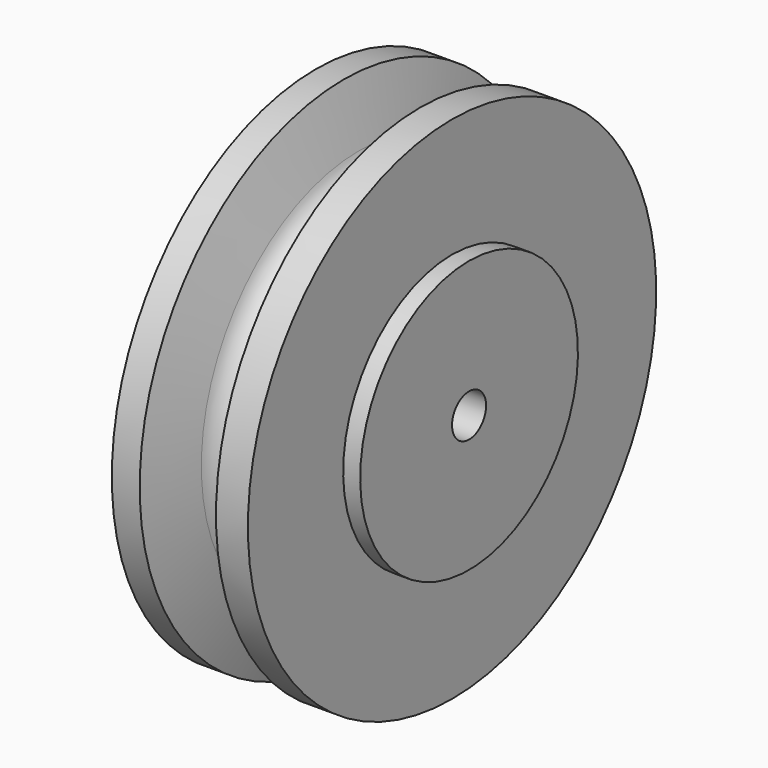
from build123d import *

# Parameters (mm, degrees)
F2_R     = 3.96875
F3_DEPTH = 31.751


with BuildPart() as f1:
    # F0 (on Front) → F1 (revolve)
    with BuildSketch(Plane.XZ):
        with BuildLine():
            Line((-59.353075, 25.4), (-59.353075, 0))
            Line((-59.353075, 0), (-27.603075, 0))
            Line((-27.603075, 0), (-27.603075, 25.4))
            Line((-27.603075, 25.4), (-30.778075, 25.4))
            Line((-30.778075, 25.4), (-30.778075, 47.625))
            Line((-30.778075, 47.625), (-36.734467, 47.625))
            Line((-36.734467, 47.625), (-38.806502, 37.173821))
            ThreePointArc((-38.806502, 37.173821), (-43.318604, 33.340171), (-48.077182, 36.863219))
            Line((-48.077182, 36.863219), (-50.971214, 47.625))
            Line((-50.971214, 47.625), (-56.178075, 47.625))
            Line((-56.178075, 47.625), (-56.178075, 25.4))
            Line((-56.178075, 25.4), (-59.353075, 25.4))
        make_face()
    revolve(axis=Axis((-43.478075, 0, 0), (1, 0, 0)))

    # F2 (on face) → F3 (cut, through all)
    with BuildSketch(Plane(origin=(-59.353075, 0, 0), x_dir=(0, -1, 0), z_dir=(-1, 0, 0))):
        Circle(F2_R)
    extrude(amount=-F3_DEPTH, mode=Mode.SUBTRACT)


solid = f1.part
